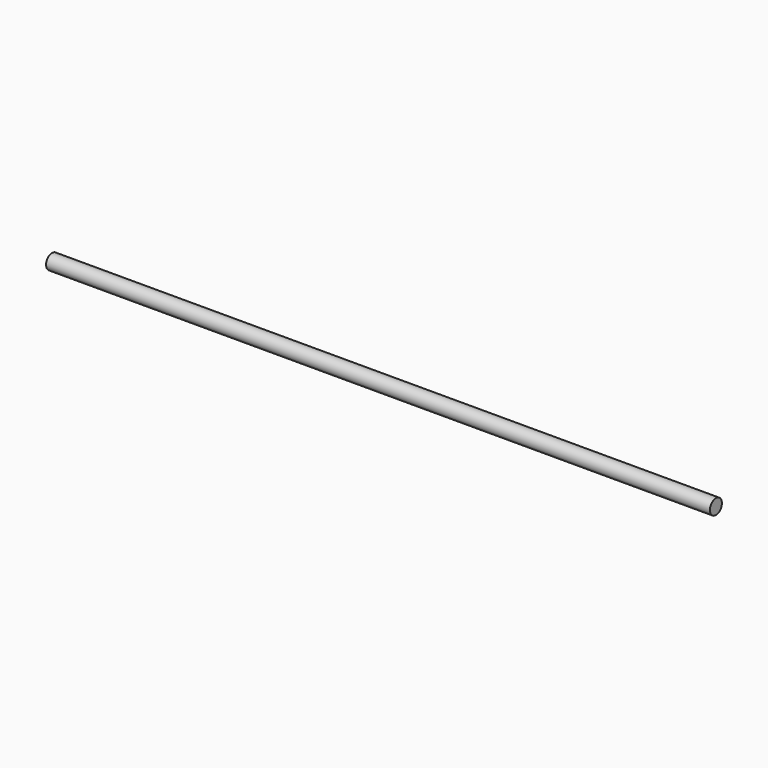
from build123d import *

# Parameters (mm, degrees)
F0_R          = 59.6501704978
F1_DEPTH      = 304.8
F1_DEPTH_BACK = 304.8
F2_R          = 59.6501704978
F2_R_2        = 21.0714216583
F3_DEPTH      = 609.601
F4_R          = 21.0714216583
F4_R_2        = 8.5899800626
F5_DEPTH      = 609.601
F6_DEPTH      = 152.4
F7_DEPTH      = 152.4
F8_DEPTH      = 76.2
F9_DEPTH      = 76.2


with BuildPart() as f1:
    # F0 (on Right) → F1 (new body, two sides)
    with BuildSketch(Plane.YZ) as f1_sk:
        Circle(F0_R)
    extrude(amount=F1_DEPTH)
    extrude(f1_sk.sketch, amount=-F1_DEPTH_BACK)

    # F2 (on face) → F3 (cut, through all)
    with BuildSketch(Plane.YZ.offset(304.8)):
        Circle(F2_R)
        Circle(F2_R_2, mode=Mode.SUBTRACT)
    extrude(amount=-F3_DEPTH, mode=Mode.SUBTRACT)

    # F4 (on face) → F5 (cut, through all)
    with BuildSketch(Plane.YZ.offset(304.8)):
        Circle(F4_R)
        Circle(F4_R_2, mode=Mode.SUBTRACT)
    extrude(amount=-F5_DEPTH, mode=Mode.SUBTRACT)

    # F6 (add): a face of the model
    f6_faces = [f1.faces().sort_by_distance(p)[0] for p in [
        (304.8, 0, 0),
    ]]
    extrude(f6_faces, amount=F6_DEPTH)

    # F7 (add): a face of the model
    f7_faces = [f1.faces().sort_by_distance(p)[0] for p in [
        (-304.8, 0, 0),
    ]]
    extrude(f7_faces, amount=F7_DEPTH)

    # F8 (cut): a face of the model
    f8_faces = [f1.faces().sort_by_distance(p)[0] for p in [
        (457.2, 0, 0),
    ]]
    extrude(f8_faces, amount=-F8_DEPTH, mode=Mode.SUBTRACT)

    # F9 (cut): a face of the model
    f9_faces = [f1.faces().sort_by_distance(p)[0] for p in [
        (-457.2, 0, 0),
    ]]
    extrude(f9_faces, amount=-F9_DEPTH, mode=Mode.SUBTRACT)


solid = f1.part
